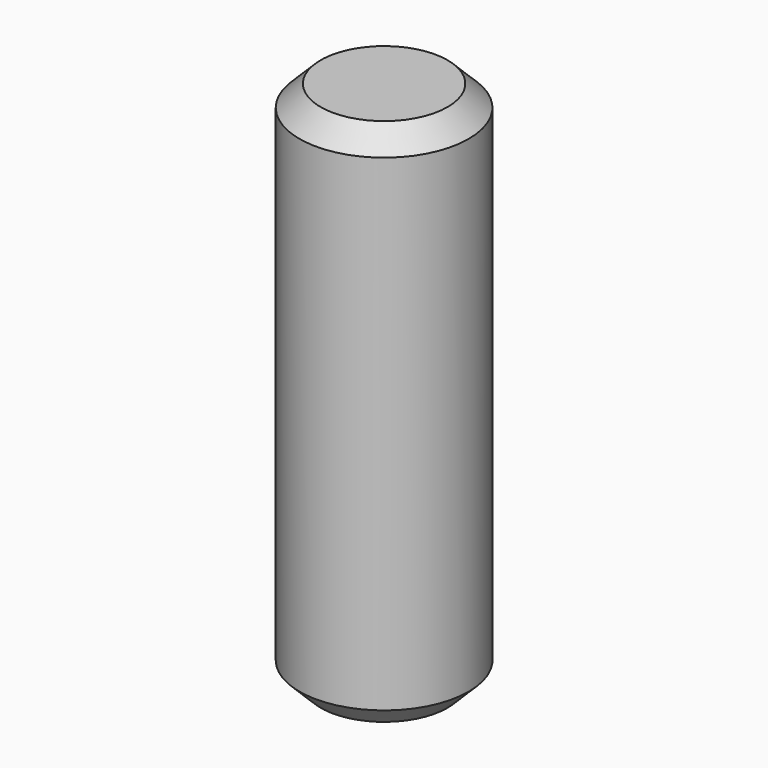
from build123d import *

# Parameters (mm, degrees)
F0_R     = 4
F1_DEPTH = 25
F2_SIZE2 = 1
F2_SIZE  = 1


with BuildPart() as f1:
    # F0 (on Top) → F1 (new body)
    with BuildSketch(Plane.XY):
        Circle(F0_R)
    extrude(amount=F1_DEPTH)

    # F2
    f2_edges = [f1.edges().sort_by_distance(p)[0] for p in [
        (-4, 0, 25),
        (-4, 0, 0),
    ]]
    chamfer(f2_edges, length=F2_SIZE, length2=F2_SIZE2)


solid = f1.part
